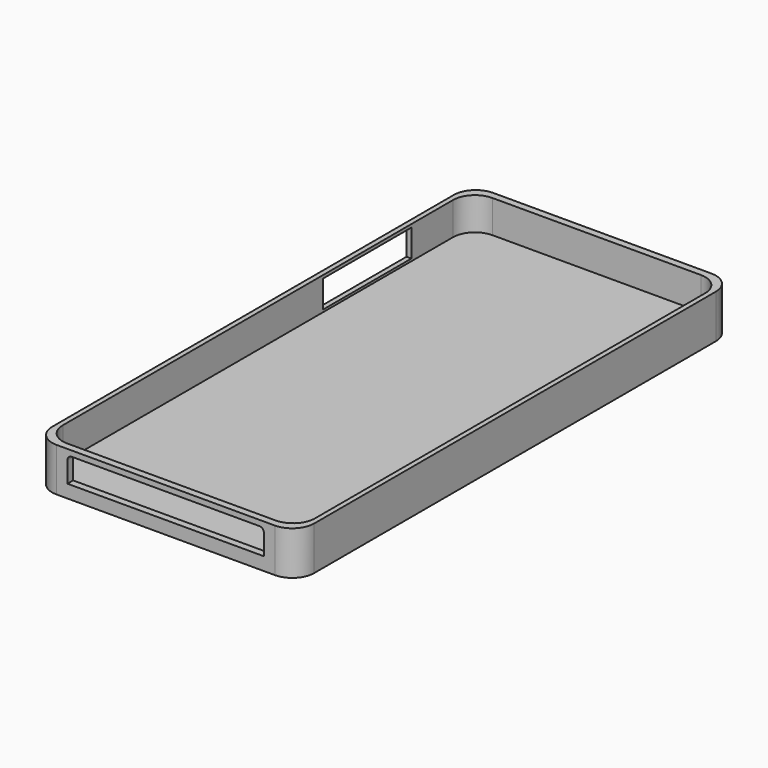
from build123d import *

# Parameters (mm, degrees)
F0_W      = 60.96
F0_H      = 127
F1_DEPTH  = 10.16
F2_W      = 58.674
F2_H      = 123.698
F3_DEPTH  = 7.62
F4_R      = 5.08
F5_R      = 5.08
F6_W      = 45.72
F6_H      = 5.842
F7_DEPTH  = 25.4
F8_R      = 1.016
F9_W      = 25.752777
F9_H      = 6.35
F10_DEPTH = 25.4
F11_W     = 13.145404
F11_H     = 3.033555
F12_DEPTH = 0.508
F13_R     = 0.762


with BuildPart() as f1:
    # F0 (on Top) → F1 (new body)
    with BuildSketch(Plane.XY):
        Rectangle(F0_W, F0_H)
    extrude(amount=F1_DEPTH)

    # F2 (on face) → F3 (cut)
    with BuildSketch(Plane.XY.offset(10.16)):
        Rectangle(F2_W, F2_H)
    extrude(amount=-F3_DEPTH, mode=Mode.SUBTRACT)

    # F4
    f4_edges = [f1.edges().sort_by_distance(p)[0] for p in [
        (-29.337, 61.849, 6.35),
    ]]
    fillet(f4_edges, radius=F4_R)

    # F5
    f5_edges = [f1.edges().sort_by_distance(p)[0] for p in [
        (29.337, 61.849, 6.35),
        (29.337, -61.849, 6.35),
        (-29.337, -61.849, 6.35),
        (30.48, 63.5, 5.08),
        (-30.48, 63.5, 5.08),
        (-30.48, -63.5, 5.08),
        (30.48, -63.5, 5.08),
    ]]
    fillet(f5_edges, radius=F5_R)

    # F6 (on face) → F7 (cut)
    with BuildSketch(Plane.XZ.offset(63.5)):
        with Locations((0, 5.956087)):
            Rectangle(F6_W, F6_H)
    extrude(amount=-F7_DEPTH, mode=Mode.SUBTRACT)

    # F8
    f8_edges = [f1.edges().sort_by_distance(p)[0] for p in [
        (-22.86, -62.6745, 8.877087),
        (22.86, -62.6745, 8.877087),
    ]]
    fillet(f8_edges, radius=F8_R)

    # F9 (on face) → F10 (cut)
    with BuildSketch(Plane(origin=(-30.48, 0, 0), x_dir=(0, -1, 0), z_dir=(-1, 0, 0))):
        with Locations((-31.762417, 6.265609)):
            Rectangle(F9_W, F9_H)
    extrude(amount=-F10_DEPTH, mode=Mode.SUBTRACT)

    # F11 (on face) → F12 (join)
    with BuildSketch(Plane(origin=(0, 63.5, 0), x_dir=(-1, 0, 0), z_dir=(0, 1, 0))):
        with Locations((-14.788578, 5.435118)):
            Rectangle(F11_W, F11_H)
    extrude(amount=F12_DEPTH)

    # F13
    f13_edges = [f1.edges().sort_by_distance(p)[0] for p in [
        (8.215876, 63.754, 3.918341),
        (8.215876, 63.754, 6.951896),
        (21.36128, 63.754, 3.918341),
        (21.36128, 63.754, 6.951896),
    ]]
    fillet(f13_edges, radius=F13_R)


solid = f1.part
